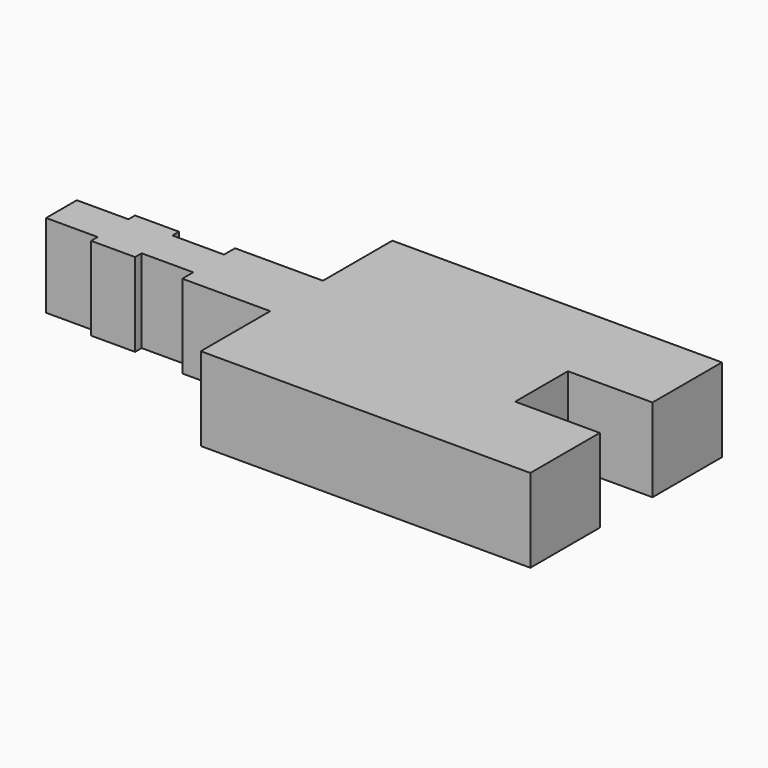
from build123d import *

# Parameters (mm, degrees)
F0_W     = 5
F0_H     = 5.5
F1_DEPTH = 7.6
F2_W     = 5
F2_H     = 5.5
F3_DEPTH = 1


with BuildPart() as f1:
    # F0 (on Top) → F1 (new body)
    with BuildSketch(Plane.XY):
        Polygon((-23, -3), (-15, -3), (-15, 3), (-23, 3), (-23, 1.75), (-27.7, 1.75), (-27.7, 2.5), (-31.7, 2.5), (-31.7, 1.75), (-36.4, 1.75), (-36.4, -1.75), (-31.7, -1.75), (-31.7, -2.5), (-27.7, -2.5), (-27.7, -1.75), (-23, -1.75), align=None)
        Polygon((-15, -3), (-15, -10.9), (15, -10.9), (15, -3), (7.3, -3), (7.3, 3), (15, 3), (15, 10.9), (-15, 10.9), (-15, 3), align=None)
        with Locations((-3.5, 0)):
            Rectangle(F0_W, F0_H, mode=Mode.SUBTRACT)
    extrude(amount=F1_DEPTH)

    # F2 (on face) → F3 (join)
    with BuildSketch(Plane.XY.offset(7.6)):
        with Locations((-3.5, 0)):
            Rectangle(F2_W, F2_H)
    extrude(amount=-F3_DEPTH)


solid = f1.part
